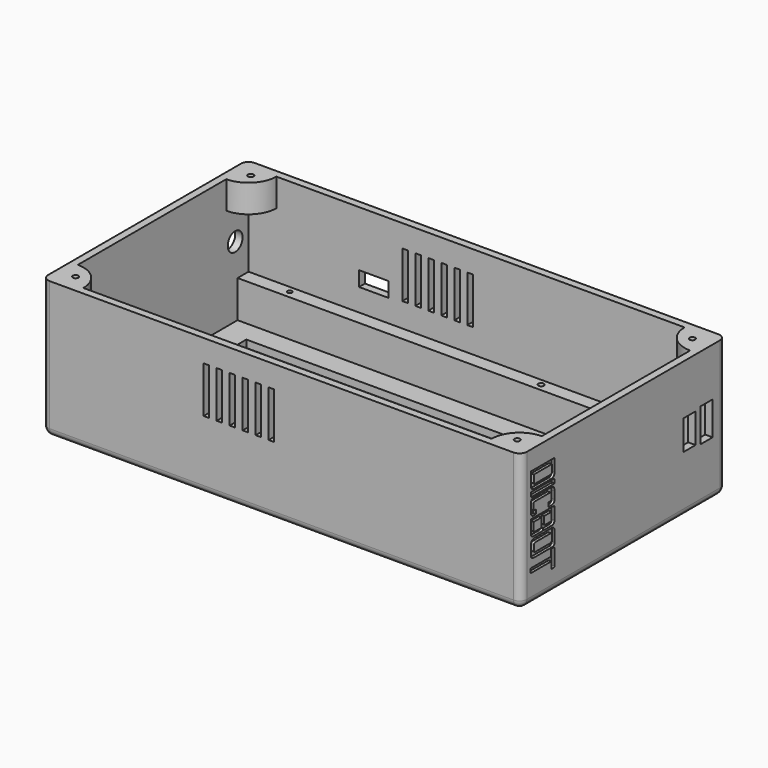
from build123d import *

# Parameters (mm, degrees)
SKETCH_W        = 250
SKETCH_H        = 130
PAD_DEPTH       = 70
THICKNESS_T     = 4
PAD008_DEPTH    = 20
SKETCH017_R     = 1.5
SKETCH017_R_2   = 1.255583
POCKET_DEPTH    = 15
SKETCH018_R     = 1.5
PAD011_DEPTH    = 15
SKETCH019_W     = 162
SKETCH019_H     = 92
POCKET001_DEPTH = 4
POCKET038_DEPTH = 1.5
SKETCH085_W     = 8
SKETCH085_H     = 18
SKETCH085_H_2   = 16
POCKET039_DEPTH = 4
POCKET040_DEPTH = 1.5
SKETCH087_R     = 5
POCKET041_DEPTH = 5
POCKET042_DEPTH = 1.5
SKETCH090_W     = 3
SKETCH090_H     = 25
POCKET044_DEPTH = 4
SKETCH092_R     = 5
SKETCH092_W     = 3
SKETCH092_H     = 25
SKETCH092_W_2   = 16
SKETCH092_H_2   = 8
POCKET046_DEPTH = 4


with BuildPart() as part:
    # Sketch → Pad (new body)
    with BuildSketch(Plane.XY):
        Rectangle(SKETCH_W, SKETCH_H)
    extrude(amount=PAD_DEPTH)

    # Thickness
    thickness_openings = [part.faces().sort_by_distance(p)[0] for p in [
        (0, 0, 70),
    ]]
    offset(amount=THICKNESS_T, openings=thickness_openings)

    # Sketch010 (on Face5 of Thickness) → Pad008 (join)
    with BuildSketch(Plane.XY):
        Polygon((-125, 65), (70.5, 65), (70.5, 57.93), (70.5, 48.1), (65.5, 48.1), (65.5, 57.6), (-125, 57.6), align=None)
        Polygon((-125, -65), (70.5, -65), (70.5, -57.93), (70.5, -48.1), (65.5, -48.1), (65.5, -57.6), (-125, -57.6), align=None)
    extrude(amount=PAD008_DEPTH)

    # Sketch017 (on Face2 of Pad008) → Pocket (cut)
    with BuildSketch(Plane.XY.offset(20)):
        with Locations((35.5, 61.5)):
            Circle(SKETCH017_R)
        with Locations((-100, 61.5)):
            Circle(SKETCH017_R_2)
        with Locations((-100, -61.5)):
            Circle(SKETCH017_R)
        with Locations((35.5, -61.5)):
            Circle(SKETCH017_R)
    extrude(amount=-POCKET_DEPTH, mode=Mode.SUBTRACT)

    # Sketch018 (on Face6 of Pocket) → Pad011 (join)
    with BuildSketch(Plane.XY.offset(70)):
        with BuildLine():
            Line((-125, 65), (-110, 65))
            ThreePointArc((-125, 50), (-114.393398, 54.393398), (-110, 65))
            Line((-125, 65), (-125, 50))
        make_face()
        with Locations((-119, 59)):
            Circle(SKETCH018_R, mode=Mode.SUBTRACT)
        with BuildLine():
            Line((125, 65), (110, 65))
            ThreePointArc((110, 65), (114.393398, 54.393398), (125, 50))
            Line((125, 65), (125, 50))
        make_face()
        with Locations((119, 59)):
            Circle(SKETCH018_R, mode=Mode.SUBTRACT)
        with BuildLine():
            Line((125, -65), (125, -50))
            ThreePointArc((125, -50), (114.393398, -54.393398), (110, -65))
            Line((125, -65), (110, -65))
        make_face()
        with Locations((119, -59)):
            Circle(SKETCH018_R, mode=Mode.SUBTRACT)
        with BuildLine():
            Line((-125, -65), (-110, -65))
            ThreePointArc((-110, -65), (-114.393398, -54.393398), (-125, -50))
            Line((-125, -65), (-125, -50))
        make_face()
        with Locations((-119, -59)):
            Circle(SKETCH018_R, mode=Mode.SUBTRACT)
    extrude(amount=-PAD011_DEPTH)

    # Sketch019 (on Face57 of Pad011) → Pocket001 (cut)
    with BuildSketch(Plane(origin=(0, 0, -4), x_dir=(1, 0, 0), z_dir=(0, 0, -1))):
        with Locations((-30.093171, -0.126837)):
            Rectangle(SKETCH019_W, SKETCH019_H)
    extrude(amount=-POCKET001_DEPTH, mode=Mode.SUBTRACT)

    # Sketch020 (on Face35 of Pocket001) → Pocket038 (cut)
    with BuildSketch(Plane.YZ.offset(129)):
        with BuildLine():
            add(Edge.make_bspline(
                [(-46.407729, 52.912792), (-46.3577, 50.455677), (-48.7061, 50.4681)],
                knots=[0, 0, 0, 1, 1, 1], degree=2))
            Line((-46.407729, 52.912792), (-46.407729, 59.580799))
            Line((-46.407729, 59.580799), (-62.221534, 59.580799))
            Line((-62.221534, 59.580799), (-62.221534, 52.496899))
            add(Edge.make_bspline(
                [(-62.221534, 52.496899), (-62.224892, 50.441975), (-59.8635, 50.4681)],
                knots=[0, 0, 0, 1, 1, 1], degree=2))
            Line((-59.8635, 50.4681), (-48.7061, 50.4681))
        make_face()
        with BuildLine():
            Line((-48.211897, 57.308212), (-60.22766, 57.308212))
            Line((-60.22766, 57.308212), (-60.22766, 53.296303))
            ThreePointArc((-60.22766, 53.296303), (-60.031552, 52.822855), (-59.558104, 52.626747))
            Line((-59.558104, 52.626747), (-49.013707, 52.626747))
            ThreePointArc((-49.013707, 52.626747), (-48.446742, 52.861592), (-48.211897, 53.428557))
            Line((-48.211897, 53.428557), (-48.211897, 57.308212))
        make_face(mode=Mode.SUBTRACT)
        with BuildLine():
            Line((-46.930102, 49.752013), (-61.726516, 49.752013))
            ThreePointArc((-61.726516, 49.752013), (-62.085706, 49.603232), (-62.234487, 49.244043))
            Line((-62.234487, 49.244043), (-62.234487, 47.772109))
            ThreePointArc((-62.234487, 47.772109), (-62.102858, 47.454328), (-61.785077, 47.322699))
            Line((-61.785077, 47.322699), (-46.760533, 47.322699))
            ThreePointArc((-46.760533, 47.322699), (-46.511063, 47.426033), (-46.407729, 47.675503))
            Line((-46.407729, 47.675503), (-46.407729, 49.22964))
            ThreePointArc((-46.407729, 49.22964), (-46.560728, 49.599014), (-46.930102, 49.752013))
        make_face()
        with BuildLine():
            Line((-62.3836, 43.4245), (-62.3836, 40.0424))
            add(Edge.make_bspline(
                [(-62.3836, 40.0424), (-62.401924, 37.853386), (-60.0649, 37.9329)],
                knots=[0, 0, 0, 1, 1, 1], degree=2))
            Line((-60.0649, 37.9329), (-58.844557, 37.9329))
            Line((-58.844557, 37.9329), (-58.844557, 40.149492))
            Line((-58.844557, 40.149492), (-59.896846, 40.149492))
            ThreePointArc((-59.896846, 40.149492), (-60.343542, 40.33452), (-60.528569, 40.781216))
            Line((-60.528569, 40.781216), (-60.528569, 43.674464))
            ThreePointArc((-60.528569, 43.674464), (-60.353603, 44.096869), (-59.931198, 44.271835))
            Line((-59.931198, 44.271835), (-49.348956, 44.271835))
            ThreePointArc((-49.348956, 44.271835), (-48.783703, 44.037699), (-48.549567, 43.472446))
            Line((-48.549567, 43.472446), (-48.549567, 40.70638))
            ThreePointArc((-48.549567, 40.70638), (-48.718539, 40.298447), (-49.126472, 40.129475))
            Line((-49.126472, 40.129475), (-50.310381, 40.129475))
            Line((-50.310381, 40.129475), (-50.310381, 37.88073))
            Line((-50.310381, 37.88073), (-48.6542, 37.88073))
            add(Edge.make_bspline(
                [(-46.407665, 39.8952), (-46.298084, 37.886429), (-48.6542, 37.88073)],
                knots=[0, 0, 0, 1, 1, 1], degree=2))
            Line((-46.407665, 39.8952), (-46.407665, 43.788))
            add(Edge.make_bspline(
                [(-48.6329, 46.4925), (-46.263023, 46.510868), (-46.407665, 43.788)],
                knots=[0, 0, 0, 1, 1, 1], degree=2))
            Line((-48.6329, 46.4925), (-60.2326, 46.4925))
            add(Edge.make_bspline(
                [(-62.3836, 43.4245), (-62.540371, 46.496391), (-60.2326, 46.4925)],
                knots=[0, 0, 0, 1, 1, 1], degree=2))
        make_face()
        with BuildLine():
            add(Edge.make_bspline(
                [(-46.433949, 30.066601), (-46.35376, 28.113285), (-48.5844, 28.1556)],
                knots=[0, 0, 0, 1, 1, 1], degree=2))
            Line((-46.433949, 30.066601), (-46.433949, 36.88073))
            Line((-46.433949, 36.88073), (-62.276708, 36.88073))
            Line((-62.276708, 36.88073), (-62.276708, 29.8585))
            add(Edge.make_bspline(
                [(-62.276708, 29.8585), (-62.363617, 27.929216), (-60.1855, 28.1556)],
                knots=[0, 0, 0, 1, 1, 1], degree=2))
            Line((-60.1855, 28.1556), (-55.4519, 28.1556))
            add(Edge.make_bspline(
                [(-53.983757, 29.116199), (-53.948132, 28.058813), (-55.4519, 28.1556)],
                knots=[0, 0, 0, 1, 1, 1], degree=2))
            add(Edge.make_bspline(
                [(-53.983757, 29.116199), (-53.89563, 28.107143), (-53.2403, 28.1556)],
                knots=[0, 0, 0, 1, 1, 1], degree=2))
            Line((-53.2403, 28.1556), (-48.5844, 28.1556))
        make_face()
        with BuildLine():
            Line((-48.336325, 34.800072), (-53.303885, 34.800072))
            Line((-53.303885, 34.800072), (-53.303885, 31.027062))
            ThreePointArc((-53.303885, 31.027062), (-53.106361, 30.550197), (-52.629496, 30.352673))
            Line((-52.629496, 30.352673), (-49.144698, 30.352673))
            ThreePointArc((-49.144698, 30.352673), (-48.573092, 30.58944), (-48.336325, 31.161046))
            Line((-48.336325, 31.161046), (-48.336325, 34.800072))
        make_face(mode=Mode.SUBTRACT)
        with BuildLine():
            Line((-55.020426, 34.852089), (-60.456133, 34.852089))
            Line((-60.456133, 34.852089), (-60.456133, 30.610928))
            ThreePointArc((-60.456133, 30.610928), (-60.25861, 30.134066), (-59.781748, 29.936543))
            Line((-59.781748, 29.936543), (-55.963853, 29.936543))
            ThreePointArc((-55.963853, 29.936543), (-55.296749, 30.212866), (-55.020426, 30.87997))
            Line((-55.020426, 30.87997), (-55.020426, 34.852089))
        make_face(mode=Mode.SUBTRACT)
        with BuildLine():
            Line((-48.22028, 27.060614), (-59.982022, 27.060614))
            ThreePointArc((-59.982022, 27.060614), (-61.617044, 26.383366), (-62.294292, 24.748344))
            Line((-62.294292, 24.748344), (-62.294292, 19.594355))
            ThreePointArc((-62.294292, 19.594355), (-61.782425, 18.3586), (-60.54667, 17.846733))
            Line((-60.54667, 17.846733), (-47.914262, 17.846733))
            ThreePointArc((-47.914262, 17.846733), (-46.792459, 18.311399), (-46.327793, 19.433202))
            Line((-46.327793, 19.433202), (-46.327793, 25.168127))
            ThreePointArc((-46.327793, 25.168127), (-46.882089, 26.506317), (-48.22028, 27.060614))
        make_face()
        with BuildLine():
            Line((-49.088134, 24.799312), (-59.159065, 24.799312))
            ThreePointArc((-59.159065, 24.799312), (-59.944543, 24.473956), (-60.269899, 23.688478))
            Line((-60.269899, 23.688478), (-60.269899, 21.152563))
            ThreePointArc((-60.269899, 21.152563), (-59.997305, 20.494463), (-59.339205, 20.221869))
            Line((-59.339205, 20.221869), (-49.060144, 20.221869))
            ThreePointArc((-49.060144, 20.221869), (-48.435017, 20.480805), (-48.176081, 21.105932))
            Line((-48.176081, 21.105932), (-48.176081, 23.887259))
            ThreePointArc((-48.176081, 23.887259), (-48.443215, 24.532178), (-49.088134, 24.799312))
        make_face(mode=Mode.SUBTRACT)
        with BuildLine():
            Line((-48.62582, 17.359277), (-48.62582, 13.648021))
            Line((-48.62582, 13.648021), (-62.681883, 13.648021))
            Line((-62.681883, 13.648021), (-62.681883, 11.316141))
            Line((-62.681883, 11.316141), (-48.449051, 11.316141))
            Line((-48.449051, 11.316141), (-48.449051, 7.634955))
            Line((-48.449051, 7.634955), (-46.985313, 7.634955))
            ThreePointArc((-46.985313, 7.634955), (-46.564251, 7.809364), (-46.389842, 8.230426))
            Line((-46.389842, 8.230426), (-46.389842, 16.587037))
            ThreePointArc((-46.389842, 16.587037), (-46.616026, 17.133093), (-47.162082, 17.359277))
            Line((-47.162082, 17.359277), (-48.62582, 17.359277))
        make_face()
    extrude(amount=-POCKET038_DEPTH, mode=Mode.SUBTRACT)

    # Sketch085 (on Face35 of Pocket038) → Pocket039 (cut)
    with BuildSketch(Plane.YZ.offset(129)):
        with Locations((56.118261, 35)):
            Rectangle(SKETCH085_W, SKETCH085_H)
        with Locations((44.620703, 35)):
            Rectangle(SKETCH085_W, SKETCH085_H_2)
    extrude(amount=-POCKET039_DEPTH, mode=Mode.SUBTRACT)

    # Sketch086 (on Face47 of Pocket039) → Pocket040 (cut)
    with BuildSketch(Plane(origin=(-129, 0, 0), x_dir=(0, -1, 0), z_dir=(-1, 0, 0))):
        with BuildLine():
            Line((50.763727, 16.673934), (49.695525, 16.673934))
            ThreePointArc((49.695525, 16.673934), (49.262547, 16.494588), (49.083201, 16.06161))
            Line((49.083201, 16.06161), (49.083201, 13.543936))
            ThreePointArc((49.083201, 13.543936), (49.341897, 12.91939), (49.966443, 12.660695))
            Line((49.966443, 12.660695), (60.377822, 12.660695))
            ThreePointArc((60.377822, 12.660695), (60.831532, 12.848628), (61.019465, 13.302338))
            Line((61.019465, 13.302338), (61.019465, 16.083117))
            ThreePointArc((61.019465, 16.083117), (60.801607, 16.609074), (60.27565, 16.826932))
            Line((60.27565, 16.826932), (59.387266, 16.826932))
            Line((59.387266, 16.826932), (59.387266, 19.009878))
            Line((59.387266, 19.009878), (60.981348, 19.009878))
            ThreePointArc((63.015994, 16.975232), (62.42006, 18.413944), (60.981348, 19.009878))
            Line((63.015994, 16.975232), (63.015994, 12.81878))
            ThreePointArc((60.589247, 10.392033), (62.305216, 11.102811), (63.015994, 12.81878))
            Line((60.589247, 10.392033), (49.34447, 10.392033))
            ThreePointArc((46.989106, 12.747397), (47.678977, 11.081903), (49.34447, 10.392033))
            Line((46.989106, 12.747397), (46.989106, 17.158818))
            ThreePointArc((48.81545, 18.985161), (47.52403, 18.450237), (46.989106, 17.158818))
            Line((48.81545, 18.985161), (50.763727, 18.985161))
            Line((50.763727, 18.985161), (50.763727, 16.673934))
        make_face()
        with BuildLine():
            Line((47.139174, 28.381954), (49.142482, 28.381954))
            Line((49.142482, 28.381954), (49.142482, 23.207833))
            ThreePointArc((49.142482, 23.207833), (49.410245, 22.561396), (50.056682, 22.293633))
            Line((50.056682, 22.293633), (53.964109, 22.293633))
            Line((53.964109, 22.293633), (53.964109, 27.939598))
            Line((53.964109, 27.939598), (55.967418, 27.939598))
            Line((55.967418, 27.939598), (55.967418, 22.26462))
            Line((55.967418, 22.26462), (60.381749, 22.26462))
            ThreePointArc((60.381749, 22.26462), (60.838472, 22.453801), (61.027652, 22.910523))
            Line((61.027652, 22.910523), (61.027652, 28.41363))
            Line((61.027652, 28.41363), (63.03096, 28.41363))
            Line((63.03096, 28.41363), (63.03096, 22.688833))
            ThreePointArc((60.354442, 20.012314), (62.247026, 20.796248), (63.03096, 22.688833))
            Line((60.354442, 20.012314), (49.429705, 20.012314))
            ThreePointArc((47.139174, 22.302845), (47.810055, 20.683195), (49.429705, 20.012314))
            Line((47.139174, 22.302845), (47.139174, 28.381954))
        make_face()
        Polygon((47.169439, 29.248159), (47.169439, 31.381298), (55.787108, 35.152477), (47.111424, 38.892056), (47.111424, 41.025195), (63.058255, 41.025195), (63.058255, 38.586571), (53.206271, 38.586571), (59.02632, 36.179546), (59.02632, 34.020069), (53.890982, 31.686783), (63.11627, 31.686783), (63.11627, 29.248159), align=None)
        with BuildLine():
            Line((49.757505, 41.774647), (60.310305, 41.774647))
            ThreePointArc((60.310305, 41.774647), (62.317256, 42.605954), (63.148563, 44.612905))
            Line((63.148563, 44.612905), (63.148563, 48.411949))
            ThreePointArc((63.148563, 48.411949), (62.50221, 49.972383), (60.941776, 50.618736))
            Line((60.941776, 50.618736), (49.625185, 50.618736))
            ThreePointArc((49.625185, 50.618736), (47.846584, 49.882016), (47.109864, 48.103415))
            Line((47.109864, 48.103415), (47.109864, 44.422288))
            ThreePointArc((47.109864, 44.422288), (47.88534, 42.550123), (49.757505, 41.774647))
        make_face()
        with BuildLine():
            Line((50.233709, 44.008633), (60.026246, 44.008633))
            ThreePointArc((60.026246, 44.008633), (60.790647, 44.325258), (61.107272, 45.089659))
            Line((61.107272, 45.089659), (61.107272, 47.748215))
            ThreePointArc((61.107272, 47.748215), (60.875872, 48.306865), (60.317222, 48.538265))
            Line((60.317222, 48.538265), (50.204557, 48.538265))
            ThreePointArc((50.204557, 48.538265), (49.441067, 48.222017), (49.124819, 47.458527))
            Line((49.124819, 47.458527), (49.124819, 45.117523))
            ThreePointArc((49.124819, 45.117523), (49.449605, 44.333419), (50.233709, 44.008633))
        make_face(mode=Mode.SUBTRACT)
        with BuildLine():
            Line((50.185751, 59.118779), (49.778027, 59.118779))
            ThreePointArc((49.778027, 59.118779), (49.375527, 58.952058), (49.208806, 58.549558))
            Line((49.208806, 58.549558), (49.208806, 55.553909))
            ThreePointArc((49.208806, 55.553909), (49.506947, 54.834134), (50.226723, 54.535993))
            Line((50.226723, 54.535993), (53.533293, 54.535993))
            ThreePointArc((53.533293, 54.535993), (54.113285, 54.776233), (54.353525, 55.356225))
            Line((54.353525, 55.356225), (54.353525, 59.202638))
            ThreePointArc((56.45717, 61.306283), (54.969669, 60.69014), (54.353525, 59.202638))
            Line((56.45717, 61.306283), (61.091139, 61.306283))
            ThreePointArc((63.296436, 59.100986), (62.650519, 60.660366), (61.091139, 61.306283))
            Line((63.296436, 59.100986), (63.296436, 53.483358))
            ThreePointArc((61.920475, 52.107397), (62.893426, 52.510407), (63.296436, 53.483358))
            Line((61.920475, 52.107397), (60.54077, 52.107397))
            Line((60.54077, 52.107397), (60.54077, 54.403019))
            Line((60.54077, 54.403019), (60.893954, 54.403019))
            ThreePointArc((60.893954, 54.403019), (61.261475, 54.555251), (61.413707, 54.922772))
            Line((61.413707, 54.922772), (61.413707, 58.360627))
            ThreePointArc((61.413707, 58.360627), (61.178323, 58.928894), (60.610056, 59.164278))
            Line((60.610056, 59.164278), (57.174635, 59.164278))
            ThreePointArc((57.174635, 59.164278), (56.566803, 58.912506), (56.315031, 58.304674))
            Line((56.315031, 58.304674), (56.315031, 54.567818))
            ThreePointArc((54.101644, 52.354431), (55.666745, 53.002717), (56.315031, 54.567818))
            Line((54.101644, 52.354431), (49.494034, 52.354431))
            ThreePointArc((47.265954, 54.582512), (47.918543, 53.007021), (49.494034, 52.354431))
            Line((47.265954, 54.582512), (47.265954, 59.392783))
            ThreePointArc((49.052205, 61.179035), (47.789134, 60.655854), (47.265954, 59.392783))
            Line((49.052205, 61.179035), (50.185751, 61.179035))
            Line((50.185751, 61.179035), (50.185751, 59.118779))
        make_face()
    extrude(amount=-POCKET040_DEPTH, mode=Mode.SUBTRACT)

    # Sketch087 (on Face47 of Pocket040) → Pocket041 (cut)
    with BuildSketch(Plane(origin=(-129, 0, 0), x_dir=(0, -1, 0), z_dir=(-1, 0, 0))):
        with Locations((-55.995632, 37.946518)):
            Circle(SKETCH087_R)
    extrude(amount=-POCKET041_DEPTH, mode=Mode.SUBTRACT)

    # Sketch088 (on Face58 of Pocket041) → Pocket042 (cut)
    with BuildSketch(Plane(origin=(0, 0, -4), x_dir=(1, 0, 0), z_dir=(0, 0, -1))):
        Polygon((110.396143, -56.087268), (110.396143, -52.087268), (99.90634, -52.087268), (99.90634, -35.606525), (95.90634, -35.606525), (95.90634, -52.087268), (85.416537, -52.087268), (85.416537, -56.087268), align=None)
        with BuildLine():
            add(Edge.make_bspline(
                [(109.129028, -30.060135), (107.8228, -33.151711), (102.103008, -33.62117)],
                knots=[0, 0, 0, 1, 1, 1], degree=2))
            Line((102.103008, -33.62117), (92.7039, -33.62117))
            add(Edge.make_bspline(
                [(92.7039, -33.62117), (86.563911, -33.16415), (85.7795, -30.060135)],
                knots=[0, 0, 0, 1, 1, 1], degree=2))
            Line((85.7795, -30.060135), (85.7795, -16.893372))
            add(Edge.make_bspline(
                [(92.7039, -13.570896), (87.06588, -13.931652), (85.7795, -16.893372)],
                knots=[0, 0, 0, 1, 1, 1], degree=2))
            Line((92.7039, -13.570896), (102.103008, -13.570896))
            add(Edge.make_bspline(
                [(102.103008, -13.570896), (108.792618, -13.972116), (109.129028, -16.893372)],
                knots=[0, 0, 0, 1, 1, 1], degree=2))
            Line((109.129028, -16.893372), (109.129028, -30.060135))
        make_face()
        with BuildLine():
            Line((103.342331, -17.615774), (103.342331, -29.329913))
            ThreePointArc((103.342331, -29.329913), (102.809859, -30.615414), (101.524358, -31.147886))
            Line((101.524358, -31.147886), (92.95001, -31.147886))
            ThreePointArc((92.95001, -31.147886), (91.949368, -30.733407), (91.534889, -29.732765))
            Line((91.534889, -29.732765), (91.534889, -17.805783))
            ThreePointArc((91.534889, -17.805783), (92.082735, -16.483165), (93.405353, -15.935319))
            Line((93.405353, -15.935319), (101.661876, -15.935319))
            ThreePointArc((101.661876, -15.935319), (102.850137, -16.427513), (103.342331, -17.615774))
        make_face(mode=Mode.SUBTRACT)
        with BuildLine():
            Line((109.226685, 5.185209), (109.226685, -11.613004))
            Line((109.226685, -11.613004), (104.226685, -11.613004))
            Line((104.226685, -11.613004), (104.226685, 2.521104))
            ThreePointArc((104.226685, 2.521104), (103.383885, 4.555805), (101.349184, 5.398605))
            Line((101.349184, 5.398605), (89.284973, 5.398605))
            Line((89.284973, 5.398605), (89.284973, 9.398605))
            Line((89.284973, 9.398605), (105.013289, 9.398605))
            ThreePointArc((105.013289, 9.398605), (107.99261, 8.16453), (109.226685, 5.185209))
        make_face()
        with BuildLine():
            Line((89.440567, 31.105431), (110.225189, 31.105431))
            Line((110.225189, 31.105431), (110.225189, 10.76796))
            Line((110.225189, 10.76796), (90.930792, 10.76796))
            ThreePointArc((90.930792, 10.76796), (87.611699, 12.142773), (86.236886, 15.461866))
            Line((86.236886, 15.461866), (86.236886, 27.90175))
            ThreePointArc((86.236886, 27.90175), (87.175222, 30.167094), (89.440567, 31.105431))
        make_face()
        with BuildLine():
            Line((93.737722, 28.628967), (104.034027, 28.628967))
            Line((104.034027, 28.628967), (104.034027, 13.283731))
            Line((104.034027, 13.283731), (94.13719, 13.283731))
            ThreePointArc((94.13719, 13.283731), (92.754926, 13.856284), (92.182373, 15.238548))
            Line((92.182373, 15.238548), (92.182373, 27.073618))
            ThreePointArc((92.182373, 27.073618), (92.637924, 28.173416), (93.737722, 28.628967))
        make_face(mode=Mode.SUBTRACT)
        with BuildLine():
            add(Edge.make_bspline(
                [(110.094, 36.4318), (109.917374, 33.513103), (104.124, 32.9382)],
                knots=[0, 0, 0, 1, 1, 1], degree=2))
            Line((110.094, 36.4318), (104.168442, 36.4318))
            Line((104.168442, 36.4318), (104.168442, 35.825989))
            ThreePointArc((104.168442, 35.825989), (103.905494, 35.191175), (103.27068, 34.928227))
            Line((103.27068, 34.928227), (95.617149, 34.928227))
            ThreePointArc((95.617149, 34.928227), (94.721856, 35.29907), (94.351013, 36.194363))
            Line((94.351013, 36.194363), (94.351013, 40.442208))
            ThreePointArc((94.351013, 40.442208), (94.795444, 41.515171), (95.8684, 41.959618))
            add(Edge.make_bspline(
                [(95.8684, 41.959618), (108.601662, 42.564537), (109.992599, 45.743816), (110.006, 48.195)],
                knots=[0, 0, 0, 0, 1, 1, 1, 1], degree=3))
            Line((110.006, 48.195), (110.006, 50.93681))
            Line((110.006, 50.93681), (88.867416, 50.93681))
            Line((88.867416, 50.93681), (88.867416, 48.1508))
            Line((88.867416, 48.1508), (104.08, 48.1508))
            add(Edge.make_bspline(
                [(104.08, 48.1508), (104.043282, 42.649143), (88.273048, 46.828846), (88.1545, 40.751999)],
                knots=[0, 0, 0, 0, 1, 1, 1, 1], degree=3))
            Line((88.1545, 40.751999), (88.1545, 36.2758))
            add(Edge.make_bspline(
                [(88.1545, 36.2758), (88.390907, 32.856537), (94.351, 32.9382)],
                knots=[0, 0, 0, 1, 1, 1], degree=2))
            Line((94.351, 32.9382), (104.124, 32.9382))
        make_face()
    extrude(amount=-POCKET042_DEPTH, mode=Mode.SUBTRACT)

    # Sketch090 (on Face49 of Pocket042) → Pocket044 (cut)
    with BuildSketch(Plane.XZ.offset(69)):
        with Locations((-40.484166, 45.5)):
            Rectangle(SKETCH090_W, SKETCH090_H)
        with Locations((-33.484166, 45.5)):
            Rectangle(SKETCH090_W, SKETCH090_H)
        with Locations((-26.484166, 45.5)):
            Rectangle(SKETCH090_W, SKETCH090_H)
        with Locations((-19.484166, 45.5)):
            Rectangle(SKETCH090_W, SKETCH090_H)
        with Locations((-12.484166, 45.5)):
            Rectangle(SKETCH090_W, SKETCH090_H)
        with Locations((-5.484166, 45.5)):
            Rectangle(SKETCH090_W, SKETCH090_H)
    extrude(amount=-POCKET044_DEPTH, mode=Mode.SUBTRACT)

    # Sketch092 (on Face45 of Pocket044) → Pocket046 (cut)
    with BuildSketch(Plane(origin=(0, 69, 0), x_dir=(-1, 0, 0), z_dir=(0, 1, 0))):
        with Locations((-109.016129, 34.977913)):
            Circle(SKETCH092_R)
        with Locations((5.631237, 45.5)):
            Rectangle(SKETCH092_W, SKETCH092_H)
        with Locations((12.631237, 45.5)):
            Rectangle(SKETCH092_W, SKETCH092_H)
        with Locations((19.631237, 45.5)):
            Rectangle(SKETCH092_W, SKETCH092_H)
        with Locations((33.631237, 45.5)):
            Rectangle(SKETCH092_W, SKETCH092_H)
        with Locations((40.631237, 45.5)):
            Rectangle(SKETCH092_W, SKETCH092_H)
        with Locations((26.631237, 45.5)):
            Rectangle(SKETCH092_W, SKETCH092_H)
        with Locations((57.450397, 36.095576)):
            Rectangle(SKETCH092_W_2, SKETCH092_H_2)
    extrude(amount=-POCKET046_DEPTH, mode=Mode.SUBTRACT)


solid = part.part
